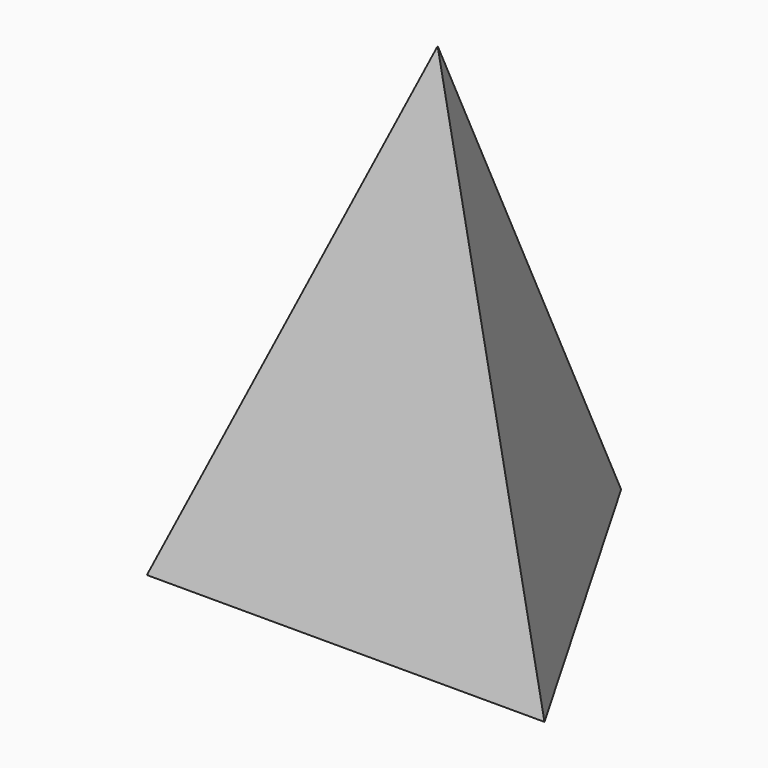
from build123d import *


with BuildPart() as f3:
    # F0 (on Top) → F3 section 0
    with BuildSketch(Plane.XY, mode=Mode.PRIVATE) as f3_s0:
        Polygon((82.565086, -47.668975), (0, 95.337949), (-82.565086, -47.668975), align=None)
    loft([f3_s0.sketch, Vertex(-1.007768, 1.343689, 200)])


solid = f3.part
